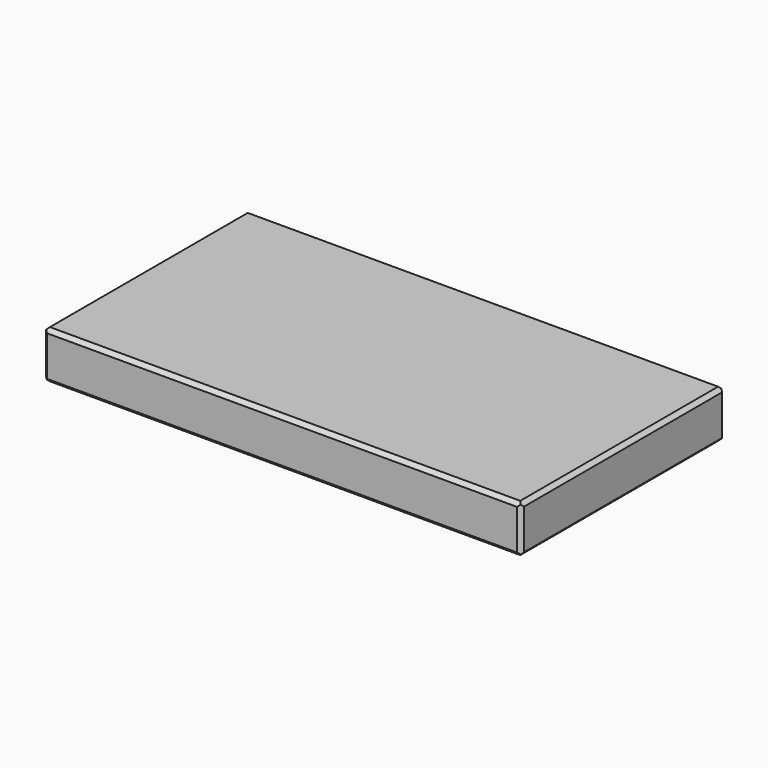
from build123d import *

# Parameters (mm, degrees)
F0_W     = 95.25
F0_H     = 50.8
F1_DEPTH = 9.525
F2_SIZE  = 0.762
F3_SIZE  = 0.762


with BuildPart() as f1:
    # F0 (on Top) → F1 (new body)
    with BuildSketch(Plane.XY):
        with Locations((12.534547, -2.307642)):
            Rectangle(F0_W, F0_H)
    extrude(amount=F1_DEPTH)

    # F2
    f2_edges = [f1.edges().sort_by_distance(p)[0] for p in [
        (-35.090453, -2.307642, 9.525),
        (12.534547, -27.707642, 9.525),
        (60.159547, -2.307642, 9.525),
        (12.534547, 23.092358, 9.525),
        (-35.090453, -2.307642, 0),
        (12.534547, -27.707642, 0),
        (60.159547, -2.307642, 0),
        (12.534547, 23.092358, 0),
    ]]
    chamfer(f2_edges, length=F2_SIZE)

    # F3
    f3_edges = [f1.edges().sort_by_distance(p)[0] for p in [
        (60.159547, -27.707642, 4.7625),
        (-35.090453, -27.707642, 4.7625),
        (60.159547, 23.092358, 4.7625),
        (-35.090453, 23.092358, 4.7625),
    ]]
    chamfer(f3_edges, length=F3_SIZE)


solid = f1.part
